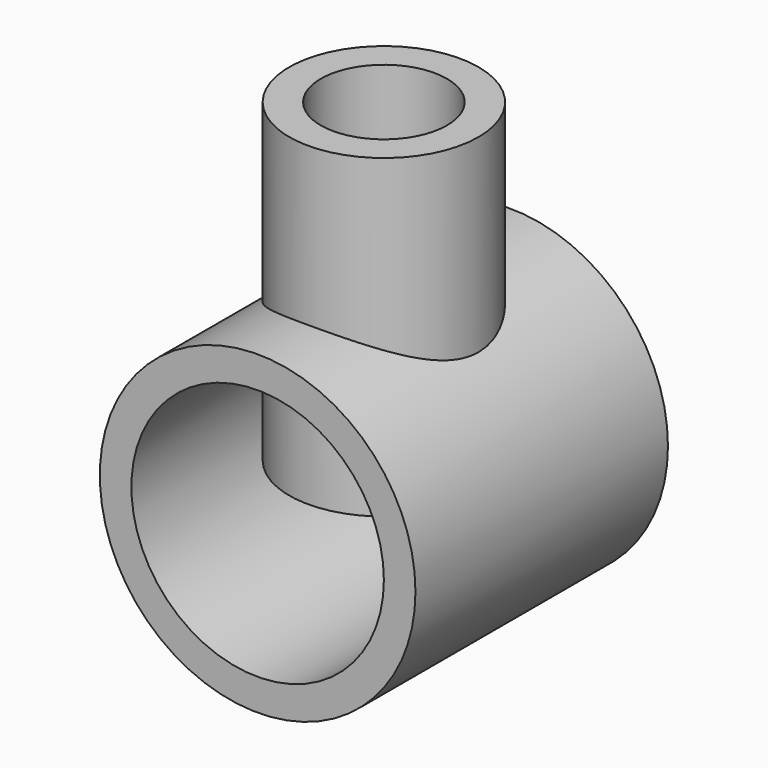
from build123d import *

# Parameters (mm, degrees)
F0_R     = 50
F0_R_2   = 40
F1_DEPTH = 50
F2_R     = 30
F2_R_2   = 20
F3_DEPTH = 100


with BuildPart() as f1:
    # F0 (on Front) → F1 (new body, symmetric)
    with BuildSketch(Plane.XZ):
        Circle(F0_R)
        Circle(F0_R_2, mode=Mode.SUBTRACT)
    extrude(amount=F1_DEPTH, both=True)


with BuildPart() as f3:
    # F2 (on Top) → F3 (new body)
    with BuildSketch(Plane.XY):
        Circle(F2_R)
        Circle(F2_R_2, mode=Mode.SUBTRACT)
    extrude(amount=F3_DEPTH)


with BuildPart() as f1_1:
    add(f1.part)

    # F4: cut F3
    add(f3.part, mode=Mode.SUBTRACT)


solid = Compound([f3.part, f1_1.part])
